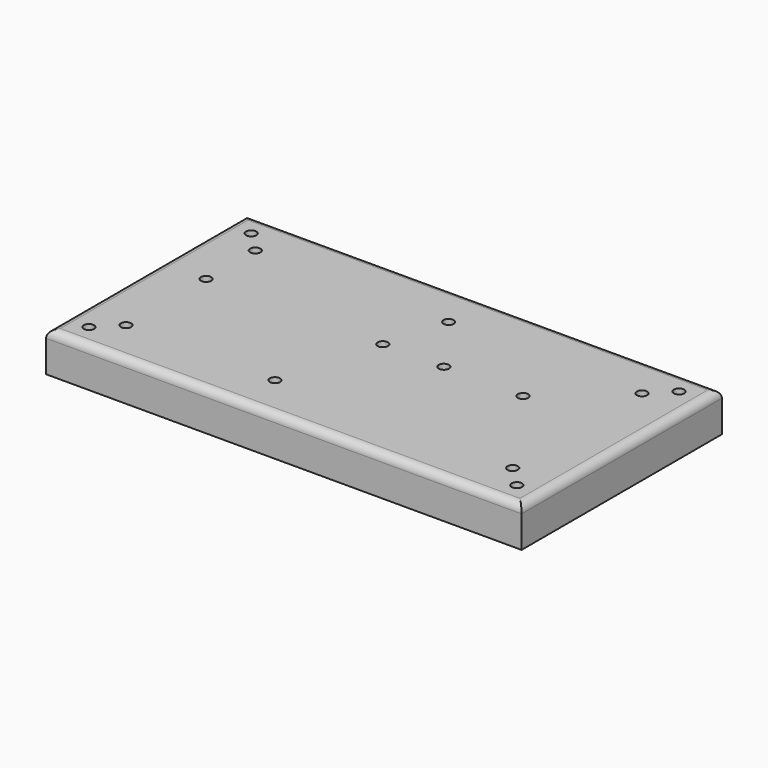
from build123d import *

# Parameters (mm, degrees)
F0_W     = 300
F0_H     = 158
F1_DEPTH = 25
F2_R     = 5
F3_R     = 3.25
F4_DEPTH = 25
F5_R     = 3.25
F6_DEPTH = 25
F7_R     = 6.25
F8_DEPTH = 15


with BuildPart() as f1:
    # F0 (on Top) → F1 (new body)
    with BuildSketch(Plane.XY):
        with Locations((150, 79)):
            Rectangle(F0_W, F0_H)
    extrude(amount=F1_DEPTH)

    # F2
    f2_edges = [f1.edges().sort_by_distance(p)[0] for p in [
        (0, 79, 25),
        (150, 158, 25),
        (150, 0, 25),
        (300, 79, 25),
    ]]
    fillet(f2_edges, radius=F2_R)

    # F3 (on face) → F4 (cut)
    with BuildSketch(Plane(origin=(0, 0, 0), x_dir=(1, 0, 0), z_dir=(0, 0, -1))):
        with Locations((15, -15)):
            Circle(F3_R)
        with Locations((285, -15)):
            Circle(F3_R)
        with Locations((15, -143)):
            Circle(F3_R)
        with Locations((285, -143)):
            Circle(F3_R)
    extrude(amount=-F4_DEPTH, mode=Mode.SUBTRACT)

    # F5 (on face) → F6 (cut)
    with BuildSketch(Plane(origin=(0, 0, 0), x_dir=(1, 0, 0), z_dir=(0, 0, -1))):
        with Locations((272, -28)):
            Circle(F5_R)
        with Locations((28, -28)):
            Circle(F5_R)
        with Locations((28, -130)):
            Circle(F5_R)
        with Locations((272, -130)):
            Circle(F5_R)
        with Locations((150, -130)):
            Circle(F5_R)
        with Locations((122, -28)):
            Circle(F5_R)
        with Locations((28, -91.2)):
            Circle(F5_R)
        with Locations((139.5, -91.2)):
            Circle(F5_R)
        with Locations((178, -91.2)):
            Circle(F5_R)
        with Locations((228, -91.2)):
            Circle(F5_R)
    extrude(amount=-F6_DEPTH, mode=Mode.SUBTRACT)

    # F7 (on face) → F8 (cut)
    with BuildSketch(Plane(origin=(0, 0, 0), x_dir=(1, 0, 0), z_dir=(0, 0, -1))):
        with Locations((28, -28)):
            Circle(F7_R)
        with Locations((122, -28)):
            Circle(F7_R)
        with Locations((272, -28)):
            Circle(F7_R)
        with Locations((228, -91.2)):
            Circle(F7_R)
        with Locations((178, -91.2)):
            Circle(F7_R)
        with Locations((139.5, -91.2)):
            Circle(F7_R)
        with Locations((150, -130)):
            Circle(F7_R)
        with Locations((272, -130)):
            Circle(F7_R)
        with Locations((28, -130)):
            Circle(F7_R)
        with Locations((28, -91.2)):
            Circle(F7_R)
    extrude(amount=-F8_DEPTH, mode=Mode.SUBTRACT)


solid = f1.part
